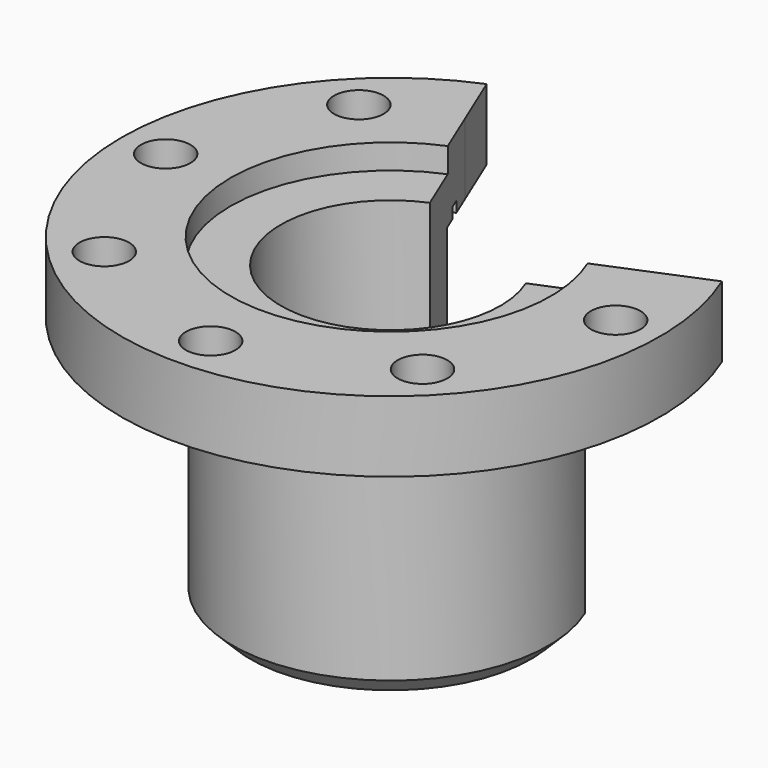
from build123d import *

# Parameters (mm, degrees)
F2_R     = 3.5
F3_DEPTH = 25
F4_SIZE  = 2.5
F5_R     = 26
F5_R_2   = 24.5
F6_DEPTH = 1.5
F8_DEPTH = 46.001
F9_DEPTH = 7.8


with BuildPart() as f1:
    # F0 (on Front) → F1 (revolve)
    with BuildSketch(Plane.XZ):
        Polygon((38, 42.8381226957), (22.6, 42.8381226957), (22.6, 39.3381226957), (15.5, 39.3381226957), (15.5, 13.3381226957), (12.7, 13.3381226957), (12.7, -3.1618773043), (18.4, -3.1618773043), (22.3, -3.1618773043), (22.3, 32.8381226957), (38, 32.8381226957), align=None)
    revolve(axis=Axis((0, 0, -18.1553717703), (0, 0, -1)))

    # F2 (on face) → F3 (cut)
    with BuildSketch(Plane.XY.offset(42.8381226957)):
        with Locations((0, 31.75)):
            Circle(F2_R)
        with Locations((0, -31.75)):
            Circle(F2_R)
        with Locations((31.75, 0)):
            Circle(F2_R)
        with Locations((-31.75, 0)):
            Circle(F2_R)
        with Locations((-22.4506403027, 22.4506403027)):
            Circle(F2_R)
        with Locations((22.4506403027, 22.4506403027)):
            Circle(F2_R)
        with Locations((22.4506403027, -22.4506403027)):
            Circle(F2_R)
        with Locations((-22.4506403027, -22.4506403027)):
            Circle(F2_R)
    extrude(amount=-F3_DEPTH, mode=Mode.SUBTRACT)

    # F4
    f4_edges = [f1.edges().sort_by_distance(p)[0] for p in [
        (-22.3, 0, -3.161877),
    ]]
    chamfer(f4_edges, length=F4_SIZE)

    # F5 (on face) → F6 (cut)
    with BuildSketch(Plane(origin=(0, 0, 32.8381226957), x_dir=(1, 0, 0), z_dir=(0, 0, -1))):
        Circle(F5_R)
        Circle(F5_R_2, mode=Mode.SUBTRACT)
    extrude(amount=-F6_DEPTH, mode=Mode.SUBTRACT)

    # F7 (on face) → F8 (cut, through all)
    with BuildSketch(Plane.XY.offset(42.8381226957)):
        Polygon((-17.75567684, 42.8659958362), (-11.2253201513, 27.1003201513), (0, 0), (27.1003201513, 11.2253201513), (39.6317325238, 16.4160011117), (25.7364641875, 40.4654443264), align=None)
    extrude(amount=-F8_DEPTH, mode=Mode.SUBTRACT)

    # F9 (add): a face of the model
    f9_faces = [f1.faces().sort_by_distance(p)[0] for p in [
        (-5.7669841433, -13.9227313326, 13.3381226957),
    ]]
    extrude(f9_faces, amount=F9_DEPTH)


solid = f1.part
